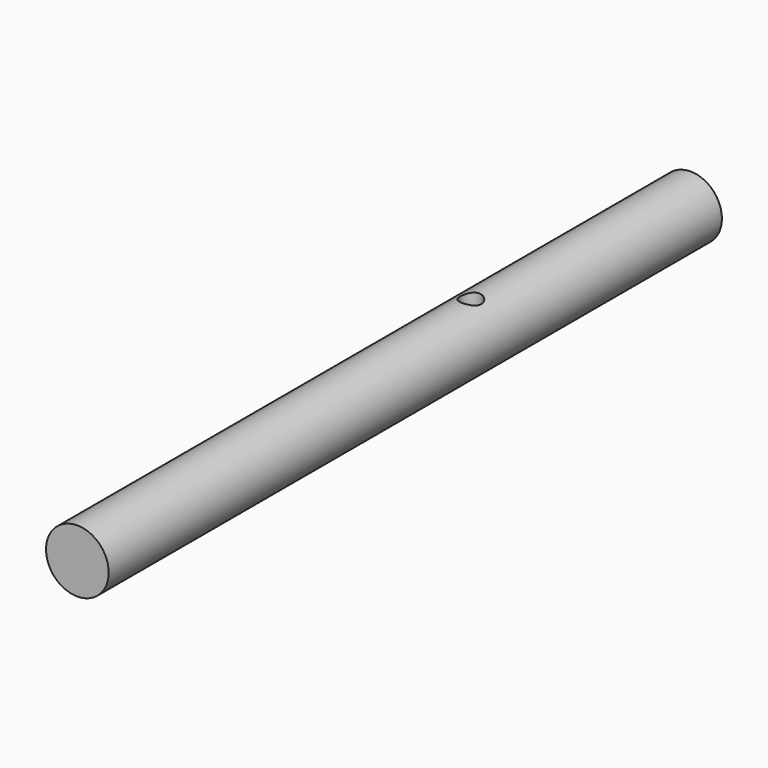
from build123d import *

# Parameters (mm, degrees)
F0_R     = 5.969
F1_DEPTH = 146.05
F2_R     = 1.9939
F3_DEPTH = 12.7


with BuildPart() as f1:
    # F0 (on Front) → F1 (new body)
    with BuildSketch(Plane.XZ):
        Circle(F0_R)
    extrude(amount=F1_DEPTH)

    # F2 (on Top) → F3 (cut, symmetric)
    with BuildSketch(Plane.XY):
        with Locations((0, -52.324)):
            Circle(F2_R)
    extrude(amount=F3_DEPTH, both=True, mode=Mode.SUBTRACT)


solid = f1.part
